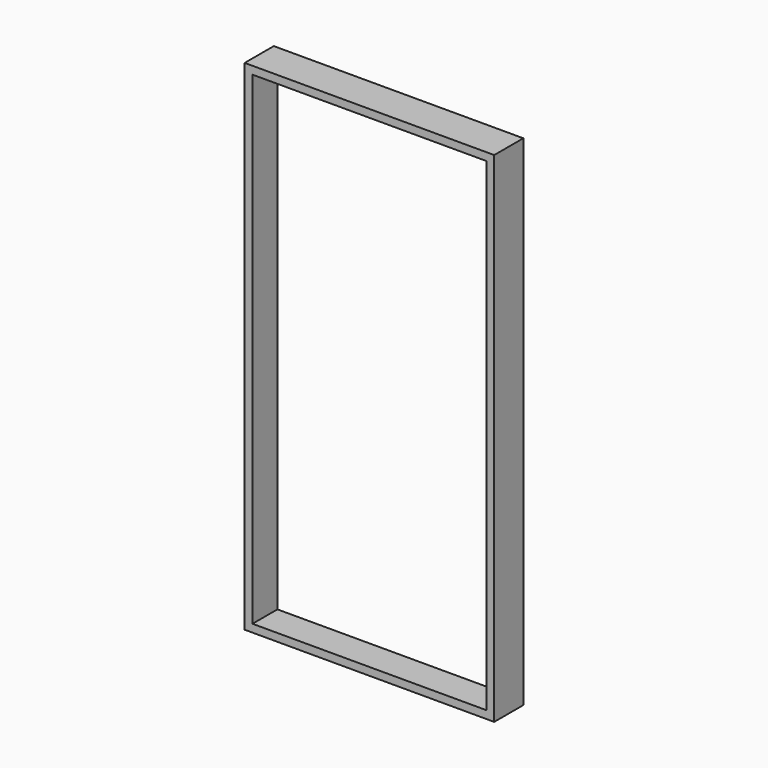
from build123d import *

# Parameters (mm, degrees)
F0_W     = 609.6
F0_H     = 1219.2
F1_DEPTH = 88.9
F2_W     = 571.5
F2_H     = 1181.1
F3_DEPTH = 88.9
F4_W     = 590.55
F4_H     = 1200.15
F5_DEPTH = 12.7


with BuildPart() as f1:
    # F0 (on Front) → F1 (new body)
    with BuildSketch(Plane.XZ):
        Rectangle(F0_W, F0_H)
    extrude(amount=F1_DEPTH)

    # F2 (on face) → F3 (cut)
    with BuildSketch(Plane.XZ.offset(88.9)):
        Rectangle(F2_W, F2_H)
    extrude(amount=-F3_DEPTH, mode=Mode.SUBTRACT)

    # F4 (on face) → F5 (cut)
    with BuildSketch(Plane(origin=(0, 0, 0), x_dir=(-1, 0, 0), z_dir=(0, 1, 0))):
        Rectangle(F4_W, F4_H)
    extrude(amount=-F5_DEPTH, mode=Mode.SUBTRACT)


solid = f1.part
